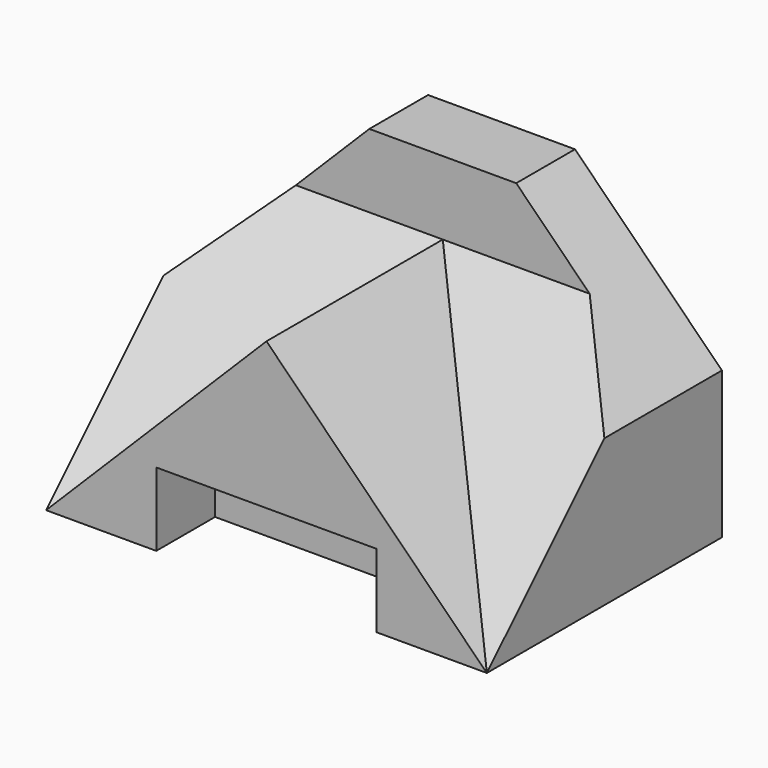
from build123d import *

# Parameters (mm, degrees)
F0_W      = 12.7
F0_H      = 6.35
F1_DEPTH  = 25.4
F3_DEPTH  = 6.351
F4_DEPTH  = 19.05
F6_DEPTH  = 19.05
F7_DEPTH  = 25.4
F9_DEPTH  = 38.101
F10_DEPTH = 25.4
F12_DEPTH = 25.401


with BuildPart() as f1:
    # F0 (on Top) → F1 (new body)
    with BuildSketch(Plane.XY):
        Polygon((25.4, 25.4), (12.7, 25.4), (12.7, 19.05), (19.05, 19.05), (25.4, 19.05), align=None)
        with Locations((6.35, 22.225)):
            Rectangle(F0_W, F0_H)
        with Locations((31.75, 22.225)):
            Rectangle(F0_W, F0_H)
    extrude(amount=F1_DEPTH)

    # F2 (on face) → F3 (cut, through all)
    with BuildSketch(Plane.XZ.offset(-19.05)):
        Polygon((12.7, 25.4), (0, 25.4), (0, 12.7), align=None)
        Polygon((38.1, 25.4), (25.4, 25.4), (38.1, 12.7), align=None)
    extrude(amount=-F3_DEPTH, mode=Mode.SUBTRACT)



with BuildPart() as f4:
    # F0 (on Top) → F4 (new body)
    with BuildSketch(Plane.XY):
        Polygon((19.05, 19.05), (0, 0), (9.525, 0), (9.525, 6.35), (28.575, 6.35), (28.575, 0), (38.1, 0), align=None)
    extrude(amount=F4_DEPTH)

    # F5 (on face) → F6 (cut)
    with BuildSketch(Plane.XZ):
        Polygon((38.1, 19.05), (28.575, 19.05), (28.575, 9.525), (38.1, 0), align=None)
        Polygon((38.1, 19.05), (28.575, 19.05), (28.575, 9.525), (38.1, 0), align=None)
        Polygon((0, 19.05), (0, 0), (19.05, 19.05), align=None)
    extrude(amount=-F6_DEPTH, mode=Mode.SUBTRACT)


with BuildPart() as f1_1:
    add(f1.part)

    add(f4.part)  # F7 merges F4
    # F0 (on Top) → F7 (join)
    with BuildSketch(Plane.XY):
        Polygon((38.1, 19.05), (25.4, 19.05), (19.05, 19.05), (38.1, 0), align=None)
        Polygon((12.7, 19.05), (0, 19.05), (0, 0), (19.05, 19.05), align=None)
    extrude(amount=F7_DEPTH)

    # F8 (on face) → F9 (cut, through all)
    with BuildSketch(Plane.YZ.offset(38.1)):
        Polygon((0, 0), (19.05, 19.05), (19.05, 25.4), (0, 25.4), align=None)
    extrude(amount=-F9_DEPTH, mode=Mode.SUBTRACT)

    # F5 (on face) → F10 (join)
    with BuildSketch(Plane.XZ):
        Polygon((19.05, 19.05), (0, 0), (9.525, 0), (9.525, 6.35), (28.575, 6.35), (28.575, 9.525), align=None)
        Polygon((28.575, 6.35), (28.575, 0), (38.1, 0), (28.575, 9.525), align=None)
    extrude(amount=-F10_DEPTH)

    # F11 (on face) → F12 (cut, through all)
    with BuildSketch(Plane.XZ):
        Polygon((6.35, 19.05), (0, 19.05), (0, 12.7), align=None)
        Polygon((38.1, 12.7), (38.1, 19.05), (31.75, 19.05), align=None)
    extrude(amount=-F12_DEPTH, mode=Mode.SUBTRACT)


solid = f1_1.part
